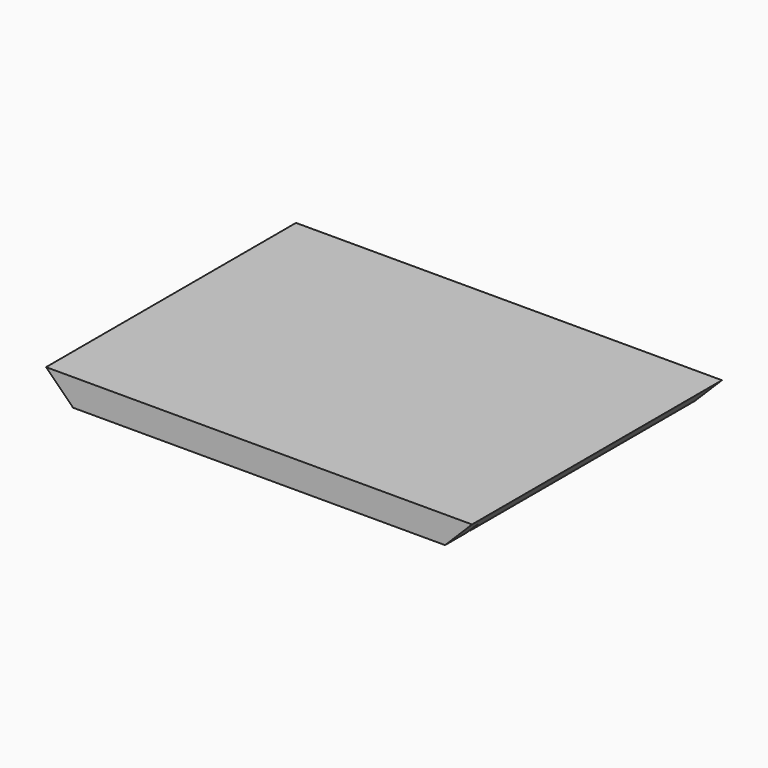
from build123d import *

# Parameters (mm, degrees)
F1_DEPTH = 220
F2_W     = 358.275851
F2_H     = 3
F3_DEPTH = 6


with BuildPart() as f1:
    # F0 (on Front) → F1 (new body)
    with BuildSketch(Plane.XZ):
        Polygon((300, 0), (0, 0), (19, -19), (281, -19), align=None)
    extrude(amount=-F1_DEPTH)

    # F2 (on face) → F3 (cut)
    with BuildSketch(Plane(origin=(0, 0, -19), x_dir=(1, 0, 0), z_dir=(0, 0, -1))):
        with Locations((172.087271, -20.5)):
            Rectangle(F2_W, F2_H)
    extrude(amount=-F3_DEPTH, mode=Mode.SUBTRACT)


solid = f1.part
